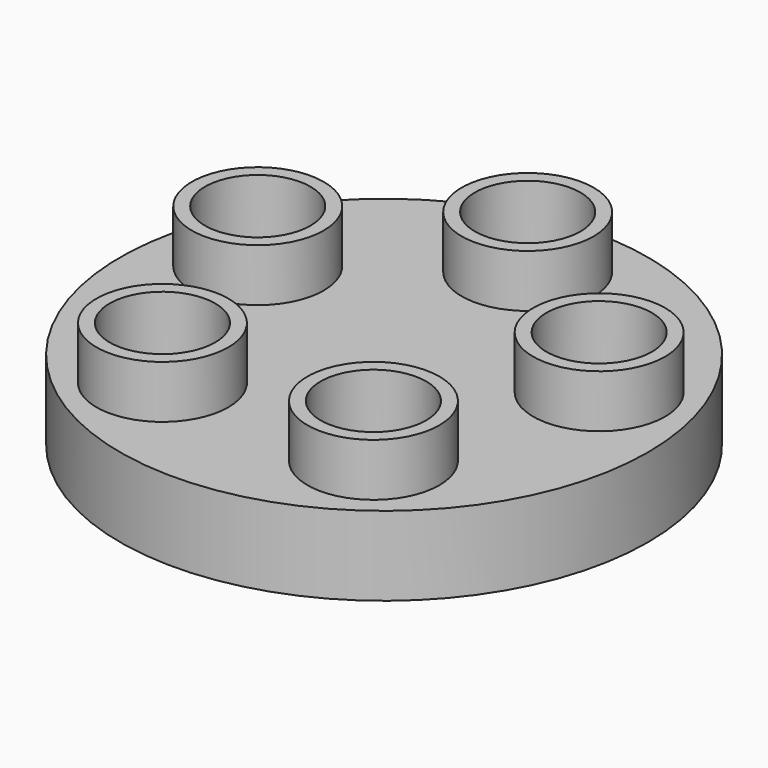
from build123d import *

# Parameters (mm, degrees)
F0_R     = 1.25
F0_R_2   = 1
F1_DEPTH = 2.5
F0_R_3   = 5
F2_DEPTH = 1.5


with BuildPart() as f1:
    # F0 (on Top) → F1 (new body)
    with BuildSketch(Plane.XY):
        with Locations((-1.99847, -2.750658)):
            Circle(F0_R)
        with Locations((-1.99847, -2.750658)):
            Circle(F0_R_2, mode=Mode.SUBTRACT)
        with Locations((-3.233592, 1.050658)):
            Circle(F0_R)
        with Locations((-3.233592, 1.050658)):
            Circle(F0_R_2, mode=Mode.SUBTRACT)
        with Locations((1.99847, -2.750658)):
            Circle(F0_R)
        with Locations((1.99847, -2.750658)):
            Circle(F0_R_2, mode=Mode.SUBTRACT)
        with Locations((3.233592, 1.050658)):
            Circle(F0_R)
        with Locations((3.233592, 1.050658)):
            Circle(F0_R_2, mode=Mode.SUBTRACT)
        with Locations((0, 3.4)):
            Circle(F0_R)
        with Locations((0, 3.4)):
            Circle(F0_R_2, mode=Mode.SUBTRACT)
    extrude(amount=F1_DEPTH)


with BuildPart() as f2:
    # F0 (on Top) → F2 (new body)
    with BuildSketch(Plane.XY):
        Circle(F0_R_3)
        with Locations((-1.99847, -2.750658)):
            Circle(F0_R, mode=Mode.SUBTRACT)
        with Locations((1.99847, -2.750658)):
            Circle(F0_R, mode=Mode.SUBTRACT)
        with Locations((-3.233592, 1.050658)):
            Circle(F0_R, mode=Mode.SUBTRACT)
        with Locations((3.233592, 1.050658)):
            Circle(F0_R, mode=Mode.SUBTRACT)
        with Locations((0, 3.4)):
            Circle(F0_R, mode=Mode.SUBTRACT)
    extrude(amount=F2_DEPTH)


solid = Compound([f1.part, f2.part])
